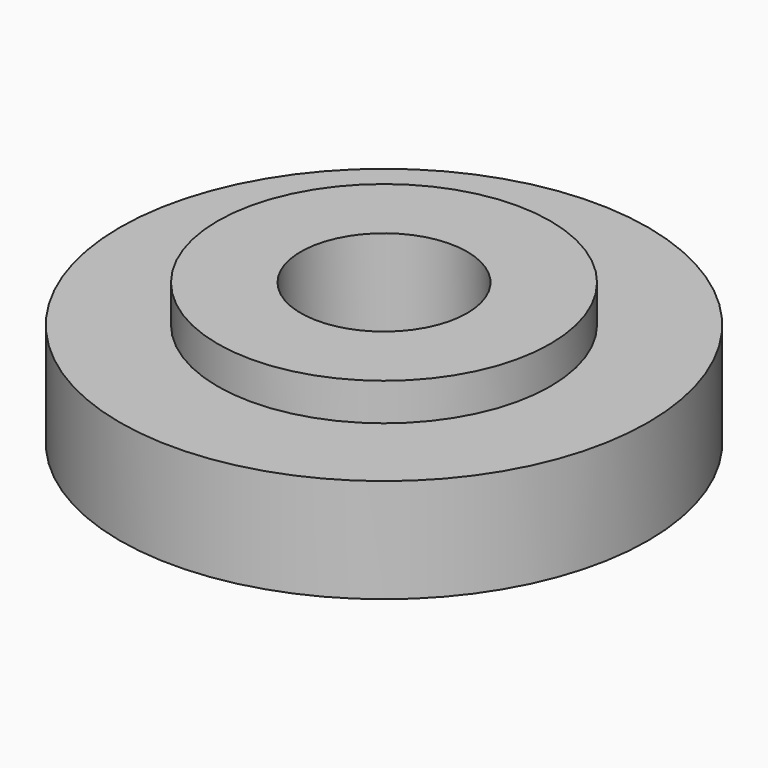
from build123d import *

# Parameters (mm, degrees)
F0_R     = 6.35
F1_DEPTH = 2.5
F2_R     = 4
F3_DEPTH = 0.9
F4_R     = 2
F5_DEPTH = 3.401


with BuildPart() as f1:
    # F0 (on Top) → F1 (new body)
    with BuildSketch(Plane.XY):
        Circle(F0_R)
    extrude(amount=F1_DEPTH)

    # F2 (on face) → F3 (join)
    with BuildSketch(Plane.XY.offset(2.5)):
        Circle(F2_R)
    extrude(amount=F3_DEPTH)

    # F4 (on face) → F5 (cut, through all)
    with BuildSketch(Plane.XY.offset(3.4)):
        Circle(F4_R)
    extrude(amount=-F5_DEPTH, mode=Mode.SUBTRACT)


solid = f1.part
